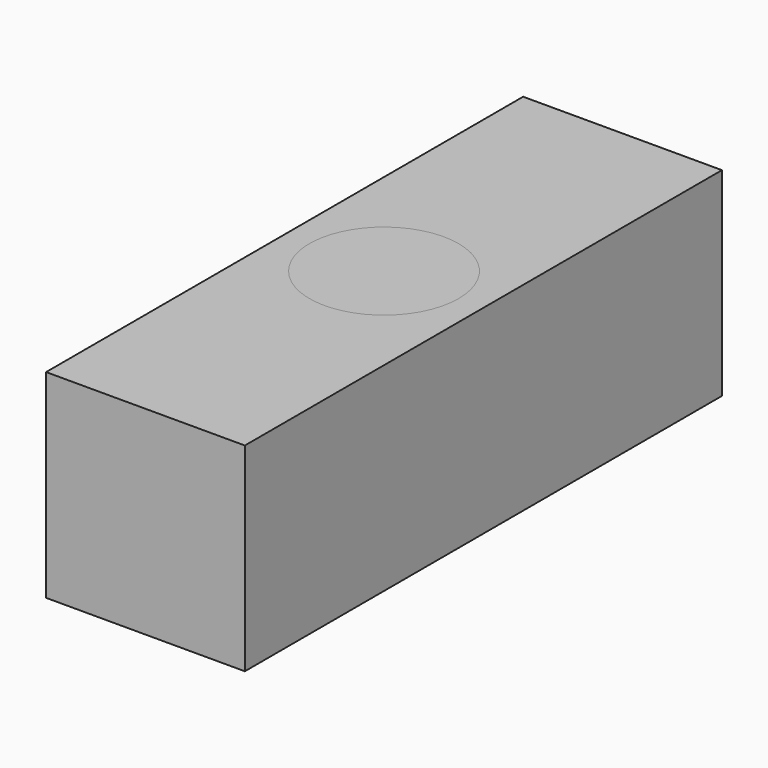
from build123d import *

# Parameters (mm, degrees)
F0_W     = 25.4
F0_H     = 76.2
F0_R     = 9.525
F1_DEPTH = 25.4
F2_R     = 9.525
F3_DEPTH = 25.4


with BuildPart() as f1:
    # F0 (on Top) → F1 (new body)
    with BuildSketch(Plane.XY):
        Rectangle(F0_W, F0_H)
        Circle(F0_R, mode=Mode.SUBTRACT)
    extrude(amount=F1_DEPTH)


with BuildPart() as f3:
    # F2 (on Top) → F3 (new body)
    with BuildSketch(Plane.XY):
        Circle(F2_R)
    extrude(amount=F3_DEPTH)


solid = Compound([f1.part, f3.part])
